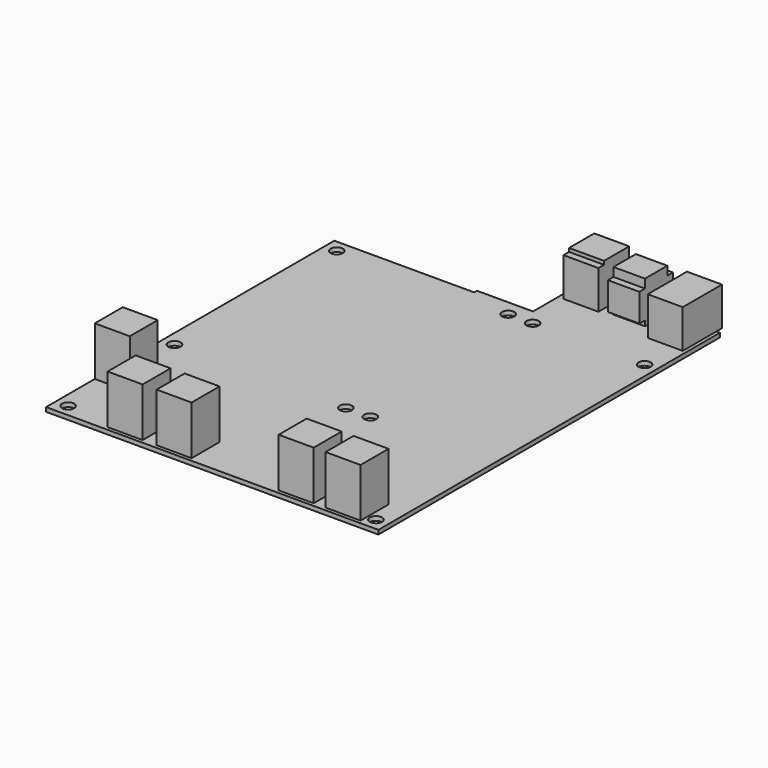
from build123d import *

# Parameters (mm, degrees)
SKETCH_R     = 1.75
PAD_DEPTH    = 1.2
BOX_W        = 10
BOX_H        = 10
BOX_DEPTH    = 14
BOX001_W     = 10
BOX001_H     = 10
BOX001_DEPTH = 14
BOX002_W     = 10
BOX002_H     = 10
BOX002_DEPTH = 14
BOX003_W     = 10
BOX003_H     = 10
BOX003_DEPTH = 14
BOX004_W     = 10
BOX004_H     = 10
BOX004_DEPTH = 14
BOX005_W     = 10
BOX005_H     = 14
BOX005_DEPTH = 11
BOX007_W     = 9
BOX007_H     = 8
BOX007_DEPTH = 12
BOX006_W     = 9
BOX006_H     = 12
BOX006_DEPTH = 8
BOX009_W     = 10
BOX009_H     = 9
BOX009_DEPTH = 9
BOX008_W     = 10
BOX008_H     = 9
BOX008_DEPTH = 11


with BuildPart() as pad:
    # Sketch → Pad (new body)
    with BuildSketch(Plane.XY.offset(-1.2)):
        Polygon((0, 0), (95, 0), (95, 122), (56, 122), (56, 104), (40, 104), (40, 103), (0, 103), align=None)
        with Locations((3.5, 99.5)):
            Circle(SKETCH_R, mode=Mode.SUBTRACT)
        with Locations((3.5, 3.5)):
            Circle(SKETCH_R, mode=Mode.SUBTRACT)
        with Locations((91.5, 3.5)):
            Circle(SKETCH_R, mode=Mode.SUBTRACT)
        with Locations((52.5, 99.5)):
            Circle(SKETCH_R, mode=Mode.SUBTRACT)
        with Locations((59.5, 99.5)):
            Circle(SKETCH_R, mode=Mode.SUBTRACT)
        with Locations((91.5, 99.5)):
            Circle(SKETCH_R, mode=Mode.SUBTRACT)
        with Locations((3.5, 41.5)):
            Circle(SKETCH_R, mode=Mode.SUBTRACT)
        with Locations((52.5, 41.5)):
            Circle(SKETCH_R, mode=Mode.SUBTRACT)
        with Locations((59.5, 41.5)):
            Circle(SKETCH_R, mode=Mode.SUBTRACT)
    extrude(amount=PAD_DEPTH)


with BuildPart() as speaker1:
    # Box → Box (new body)
    with BuildSketch(Plane(origin=(16.8, 1, 0), x_dir=(1, 0, 0), z_dir=(0, 0, 1))):
        with Locations((5, 5)):
            Rectangle(BOX_W, BOX_H)
    extrude(amount=BOX_DEPTH)


with BuildPart() as speaker2:
    # Box001 → Box001 (new body)
    with BuildSketch(Plane(origin=(30.8, 1, 0), x_dir=(1, 0, 0), z_dir=(0, 0, 1))):
        with Locations((5, 5)):
            Rectangle(BOX001_W, BOX001_H)
    extrude(amount=BOX001_DEPTH)


with BuildPart() as speaker3:
    # Box002 → Box002 (new body)
    with BuildSketch(Plane(origin=(65.7, 1, 0), x_dir=(1, 0, 0), z_dir=(0, 0, 1))):
        with Locations((5, 5)):
            Rectangle(BOX002_W, BOX002_H)
    extrude(amount=BOX002_DEPTH)


with BuildPart() as speaker4:
    # Box003 → Box003 (new body)
    with BuildSketch(Plane(origin=(79.1, 1, 0), x_dir=(1, 0, 0), z_dir=(0, 0, 1))):
        with Locations((5, 5)):
            Rectangle(BOX003_W, BOX003_H)
    extrude(amount=BOX003_DEPTH)


with BuildPart() as power2:
    # Box004 → Box004 (new body)
    with BuildSketch(Plane(origin=(0, 17.4, 0), x_dir=(1, 0, 0), z_dir=(0, 0, 1))):
        with Locations((5, 5)):
            Rectangle(BOX004_W, BOX004_H)
    extrude(amount=BOX004_DEPTH)


with BuildPart() as power:
    # Box005 → Box005 (new body)
    with BuildSketch(Plane(origin=(84, 110, 0), x_dir=(1, 0, 0), z_dir=(0, 0, 1))):
        with Locations((5, 7)):
            Rectangle(BOX005_W, BOX005_H)
    extrude(amount=BOX005_DEPTH)


with BuildPart() as obj1:
    # Box007 → Box007 (new body)
    with BuildSketch(Plane(origin=(0, 2, 0), x_dir=(1, 0, 0), z_dir=(0, 0, 1))):
        with Locations((4.5, 4)):
            Rectangle(BOX007_W, BOX007_H)
    extrude(amount=BOX007_DEPTH)


with BuildPart() as obj2:
    # Box006 → Box006 (new body)
    with BuildSketch(Plane.XY.offset(1.5)):
        with Locations((4.5, 6)):
            Rectangle(BOX006_W, BOX006_H)
    extrude(amount=BOX006_DEPTH)

    # Fusion: union obj1
    add(obj1.part)


with BuildPart() as obj2_1:
    # Fusion placement: moved
    add(obj2.part.moved(Location((71, 112, 0))))


with BuildPart() as obj3:
    # Box009 → Box009 (new body)
    with BuildSketch(Plane(origin=(0, 2, 3), x_dir=(1, 0, 0), z_dir=(0, 0, 1))):
        with Locations((5, 4.5)):
            Rectangle(BOX009_W, BOX009_H)
    extrude(amount=BOX009_DEPTH)


with BuildPart() as obj4:
    # Box008 → Box008 (new body)
    with BuildSketch(Plane.XY):
        with Locations((5, 4.5)):
            Rectangle(BOX008_W, BOX008_H)
    extrude(amount=BOX008_DEPTH)

    # Fusion001: union obj3
    add(obj3.part)


with BuildPart() as obj4_1:
    # Fusion001 placement: moved
    add(obj4.part.moved(Location((57.5, 113, 0))))


solid = Compound([pad.part, speaker1.part, speaker2.part, speaker3.part, speaker4.part, power2.part, power.part, obj2_1.part, obj4_1.part])
